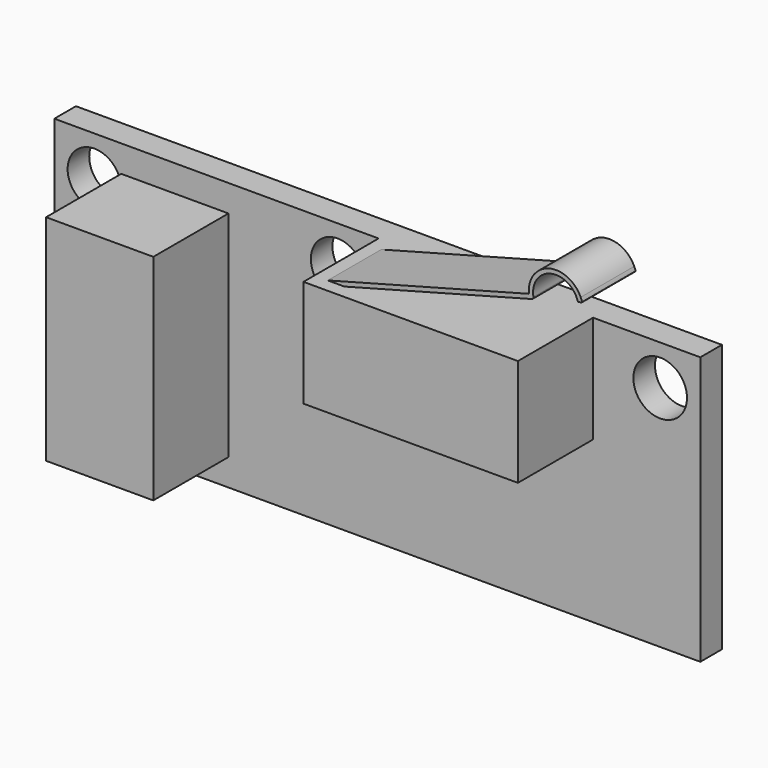
from build123d import *

# Parameters (mm, degrees)
F0_W      = 38.2524
F0_H      = 15.875
F1_DEPTH  = 1.6002
F2_W      = 12.7
F2_H      = 6.35
F2_W_2    = 6.35
F2_H_2    = 12.7
F3_DEPTH  = 5.5626
F6_DEPTH  = 3.9624
F7_R      = 0.0254
F8_R      = 0.127
F9_R      = 0.3175
F10_DEPTH = 2.3876
F11_R     = 0.254
F12_R     = 1.5875
F13_DEPTH = 1.6002


with BuildPart() as f1:
    # F0 (on Front) → F1 (new body)
    with BuildSketch(Plane.XZ):
        Rectangle(F0_W, F0_H)
    extrude(amount=F1_DEPTH)

    # F2 (on face) → F3 (join)
    with BuildSketch(Plane.XZ.offset(1.6002)):
        with Locations((6.4262, 4.7625)):
            Rectangle(F2_W, F2_H)
        with Locations((-11.9888, 0)):
            Rectangle(F2_W_2, F2_H_2)
    extrude(amount=F3_DEPTH)

    # F5 (on offset) → F6 (join)
    with BuildSketch(Plane.XZ.offset(2.3876)):
        with BuildLine():
            Line((12.7762, 11.1125), (0.8636, 7.9375))
            Line((0.8636, 7.9375), (1.8498759492, 7.9375))
            Line((1.8498759492, 7.9375), (13.0661780236, 10.9269195294))
            ThreePointArc((13.0661780236, 10.9269195294), (14.0288731499, 12.5766950244), (15.6849539361, 11.6248875232))
            Line((15.6849539361, 11.6248875232), (15.9303907781, 11.6903024597))
            ThreePointArc((15.9303907781, 11.6903024597), (15.8920050974, 11.8119484816), (15.8441044767, 11.9301717689))
            ThreePointArc((15.8441044767, 11.9301717689), (13.9634594084, 12.8221273826), (12.7762, 11.1125))
        make_face()
    extrude(amount=F6_DEPTH)

    # F7
    f7_edges = [f1.edges().sort_by_distance(p)[0] for p in [
        (12.7762, -4.3688, 11.1125),
        (15.930391, -4.3688, 11.690302),
        (15.684954, -4.3688, 11.624888),
    ]]
    fillet(f7_edges, radius=F7_R)

    # F8
    f8_edges = [f1.edges().sort_by_distance(p)[0] for p in [
        (13.066178, -4.3688, 10.92692),
    ]]
    fillet(f8_edges, radius=F8_R)

    # F9 (on face) → F10 (join)
    with BuildSketch(Plane(origin=(0, 0, 0), x_dir=(-1, 0, 0), z_dir=(0, 1, 0))):
        with Locations((-11.9888, -1.5875)):
            Circle(F9_R)
        with Locations((-6.4262, -1.5875)):
            Circle(F9_R)
        with Locations((-1.651, -1.5875)):
            Circle(F9_R)
        with Locations((9.4488, 0.8001)):
            Circle(F9_R)
        with Locations((9.4488, 3.1877)):
            Circle(F9_R)
        with Locations((9.4488, -1.5875)):
            Circle(F9_R)
        with Locations((9.4488, -3.9751)):
            Circle(F9_R)
    extrude(amount=F10_DEPTH)

    # F11
    f11_edges = [f1.edges().sort_by_distance(p)[0] for p in [
        (12.3063, 2.3876, -1.5875),
        (6.7437, 2.3876, -1.5875),
        (1.9685, 2.3876, -1.5875),
        (-9.1313, 2.3876, 3.1877),
        (-9.1313, 2.3876, 0.8001),
        (-9.1313, 2.3876, -1.5875),
        (-9.1313, 2.3876, -3.9751),
    ]]
    fillet(f11_edges, radius=F11_R)

    # F12 (on face) → F13 (cut, through all)
    with BuildSketch(Plane(origin=(0, 0, 0), x_dir=(-1, 0, 0), z_dir=(0, 1, 0))):
        with Locations((-16.7513, 5.5626)):
            Circle(F12_R)
        with Locations((2.3495, 5.5626)):
            Circle(F12_R)
        with Locations((16.7513, 5.5626)):
            Circle(F12_R)
        with Locations((16.7513, -5.5626)):
            Circle(F12_R)
    extrude(amount=-F13_DEPTH, mode=Mode.SUBTRACT)


solid = f1.part
